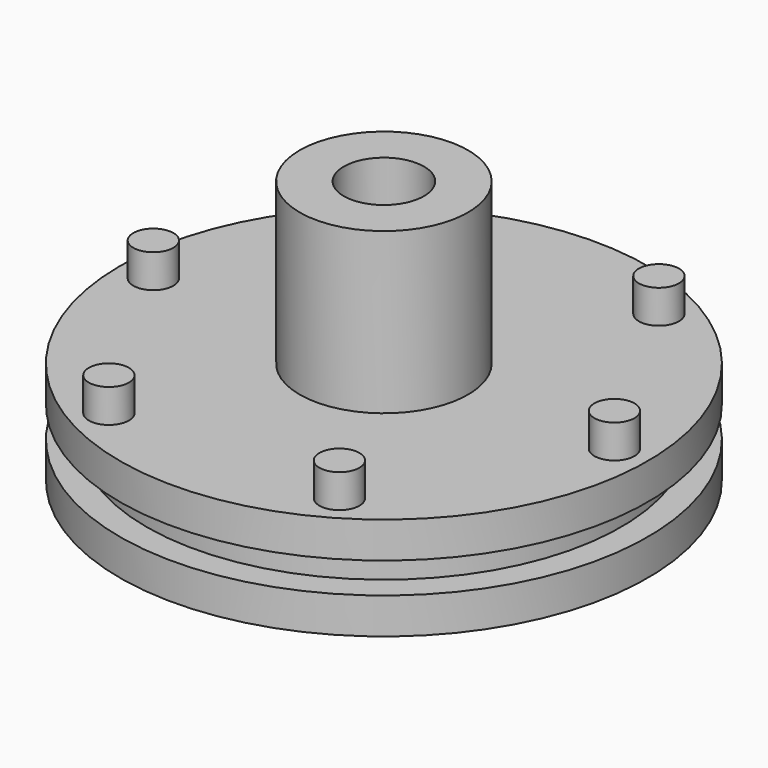
from build123d import *

# Parameters (mm, degrees)
F2_R     = 1.5
F3_DEPTH = 2.5


with BuildPart() as f1:
    # F0 (on Front) → F1 (revolve)
    with BuildSketch(Plane.XZ):
        Polygon((-19.75, 2.7), (-19.75, 0), (-3, 0), (-3, 19.7), (-6.3, 19.7), (-6.3, 7.7), (-19.75, 7.7), (-19.75, 5), (-17.75, 5), (-17.75, 2.7), align=None)
    revolve(axis=Axis((0, 0, 9.85), (0, 0, 1)))

    # F2 (on face) → F3 (join)
    with BuildSketch(Plane.XY.offset(7.7)):
        with Locations((-8.625, 14.938938)):
            Circle(F2_R)
        with Locations((8.625, 14.938938)):
            Circle(F2_R)
        with Locations((17.25, 0)):
            Circle(F2_R)
        with Locations((8.625, -14.938938)):
            Circle(F2_R)
        with Locations((-8.625, -14.938938)):
            Circle(F2_R)
        with Locations((-17.25, 0)):
            Circle(F2_R)
    extrude(amount=F3_DEPTH)


solid = f1.part
